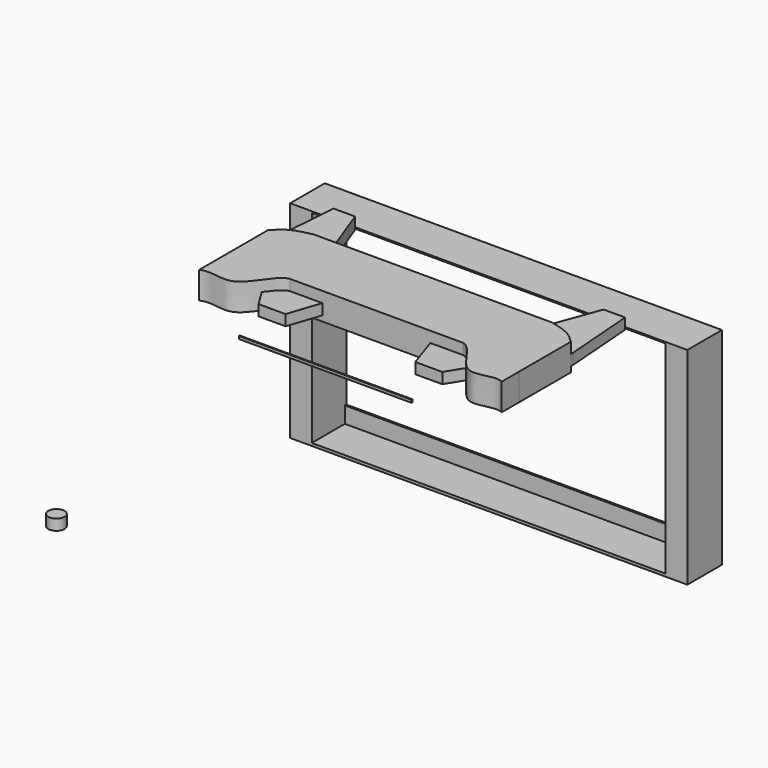
from build123d import *

# Parameters (mm, degrees)
F1_DEPTH  = 63.5
F2_DEPTH  = 38.1
F3_DEPTH  = 12.7
F4_DEPTH  = 40.64
F5_DEPTH  = 12.7
F6_DEPTH  = 38.1
F7_DEPTH  = 12.7
F8_R      = 12.7
F9_DEPTH  = 558.8
F10_DEPTH = 127
F11_DEPTH = 25.4
F0_W      = 203.2
F0_H      = 2.54
F12_DEPTH = 6.35
F13_DEPTH = 485.775
F14_W     = 831.85
F14_H     = 438.15
F15_DEPTH = 101.6
F16_W     = 831.85
F16_H     = 38.1
F17_DEPTH = 97.155


with BuildPart() as f1:
    # F0 (on Top) → F1 (new body)
    with BuildSketch(Plane.XY):
        with BuildLine():
            Line((37.6408246131, -92.8718266129), (-203.6591753869, -92.8718266129))
            Line((-203.6591753869, -92.8718266129), (-444.9591753869, -92.8718266129))
            Line((-444.9591753869, -92.8718266129), (-483.0591753869, -92.8718266129))
            add(Edge.make_bspline(
                [(-559.2591753869, -130.9718266129), (-546.2638541522, -118.4510277738), (-532.7831309209, -107.1088036139), (-512.914695692, -98.9972069738), (-483.0591753869, -92.8718266129)],
                knots=[0, 0, 0, 0, 0.4473487837, 1, 1, 1, 1], degree=3))
            Line((-559.2591753869, -130.9718266129), (-559.2613965273, -283.3718266265))
            Line((-559.2613965273, -283.3718266265), (-559.2613965273, -334.1718266265))
            add(Edge.make_bspline(
                [(-559.2613965273, -334.1718266265), (-534.6703545183, -322.2549836692), (-488.1022443355, -351.771769362), (-455.9218092576, -307.8945100815), (-444.9556249628, -293.0419546548)],
                knots=[0, 0, 0, 0, 0.468017134, 0.7185993108, 0.7185993108, 0.7185993108, 0.7185993108], degree=3))
            add(Edge.make_bspline(
                [(-444.9556249628, -293.0419546548), (-432.6407354621, -276.3627183803), (-420.647967606, -260.2482634048), (-406.8613965273, -257.9718266129)],
                knots=[0.7185993108, 0.7185993108, 0.7185993108, 0.7185993108, 1, 1, 1, 1], degree=3))
            Line((-406.8613965273, -257.9718266129), (-387.8091753869, -257.9718266129))
            Line((-387.8091753869, -257.9718266129), (-330.6591753869, -257.9718266129))
            Line((-330.6591753869, -257.9718266129), (-203.6591753869, -257.9718266129))
            Line((-203.6591753869, -257.9718266129), (-76.6591753869, -257.9718266129))
            Line((-76.6591753869, -257.9718266129), (-63.9591753869, -257.9718266129))
            Line((-63.9591753869, -257.9718266129), (-19.5091753869, -257.9718266129))
            Line((-19.5091753869, -257.9718266129), (-0.4569542466, -257.9718266129))
            add(Edge.make_bspline(
                [(37.2217993936, -293.7148213515), (24.9643426032, -276.4539964179), (12.9099595108, -260.1789696435), (-0.4569542466, -257.9718266129)],
                knots=[0.7271650273, 0.7271650273, 0.7271650273, 0.7271650273, 1, 1, 1, 1], degree=3))
            add(Edge.make_bspline(
                [(151.9430457534, -334.1718266265), (128.0174175424, -322.5774438452), (82.6413173416, -359.5323330165), (49.4333005429, -310.9109320226), (37.2217993936, -293.7148213515)],
                knots=[0, 0, 0, 0, 0.4553529672, 0.7271650273, 0.7271650273, 0.7271650273, 0.7271650273], degree=3))
            Line((151.9430457534, -334.1718266265), (151.9430457534, -283.3718266265))
            Line((151.9430457534, -283.3718266265), (151.9408246131, -130.9718265888))
            add(Edge.make_bspline(
                [(151.9408246131, -130.9718265888), (140.0118859632, -119.4784715188), (131.7584534195, -112.0598265057), (107.579450329, -99.4040756136), (75.7408246131, -92.8718266129)],
                knots=[0, 0, 0, 0, 0.4106398064, 1, 1, 1, 1], degree=3))
            Line((75.7408246131, -92.8718266129), (37.6408246131, -92.8718266129))
        make_face()
    extrude(amount=F1_DEPTH)

    # F0 (on Top) → F2 (join)
    with BuildSketch(Plane.XY):
        with BuildLine():
            add(Edge.make_bspline(
                [(-444.9556249628, -293.0419546548), (-432.6407354621, -276.3627183803), (-420.647967606, -260.2482634048), (-406.8613965273, -257.9718266129)],
                knots=[0.7185993108, 0.7185993108, 0.7185993108, 0.7185993108, 1, 1, 1, 1], degree=3))
            Line((-444.9556249628, -293.0419546548), (-419.5591753869, -334.1718266129))
            Line((-419.5591753869, -334.1718266129), (-387.8091753869, -334.1718266129))
            Line((-387.8091753869, -334.1718266129), (-387.8091753869, -257.9718266129))
            Line((-387.8091753869, -257.9718266129), (-406.8613965273, -257.9718266129))
        make_face()
        Polygon((-330.6591753869, -257.9718266129), (-387.8091753869, -257.9718266129), (-387.8091753869, -334.1718266129), (-356.0591753869, -334.1718266129), align=None)
        Polygon((-19.5091753869, -334.1718266129), (-19.5091753869, -257.9718266129), (-63.9591753869, -257.9718266129), (-76.6591753869, -257.9718266129), (-51.2591753869, -334.1718266129), align=None)
        with BuildLine():
            Line((12.2408246131, -334.1718266129), (37.2217993936, -293.7148213515))
            add(Edge.make_bspline(
                [(37.2217993936, -293.7148213515), (24.9643426032, -276.4539964179), (12.9099595108, -260.1789696435), (-0.4569542466, -257.9718266129)],
                knots=[0.7271650273, 0.7271650273, 0.7271650273, 0.7271650273, 1, 1, 1, 1], degree=3))
            Line((-0.4569542466, -257.9718266129), (-19.5091753869, -257.9718266129))
            Line((-19.5091753869, -257.9718266129), (-19.5091753869, -334.1718266129))
            Line((-19.5091753869, -334.1718266129), (12.2408246131, -334.1718266129))
        make_face()
    extrude(amount=F2_DEPTH)

    # F0 (on Top) → F3 (cut)
    with BuildSketch(Plane.XY):
        with BuildLine():
            add(Edge.make_bspline(
                [(-444.9556249628, -293.0419546548), (-432.6407354621, -276.3627183803), (-420.647967606, -260.2482634048), (-406.8613965273, -257.9718266129)],
                knots=[0.7185993108, 0.7185993108, 0.7185993108, 0.7185993108, 1, 1, 1, 1], degree=3))
            Line((-444.9556249628, -293.0419546548), (-419.5591753869, -334.1718266129))
            Line((-419.5591753869, -334.1718266129), (-387.8091753869, -334.1718266129))
            Line((-387.8091753869, -334.1718266129), (-387.8091753869, -257.9718266129))
            Line((-387.8091753869, -257.9718266129), (-406.8613965273, -257.9718266129))
        make_face()
        Polygon((-330.6591753869, -257.9718266129), (-387.8091753869, -257.9718266129), (-387.8091753869, -334.1718266129), (-356.0591753869, -334.1718266129), align=None)
        Polygon((-19.5091753869, -334.1718266129), (-19.5091753869, -257.9718266129), (-63.9591753869, -257.9718266129), (-76.6591753869, -257.9718266129), (-51.2591753869, -334.1718266129), align=None)
        with BuildLine():
            Line((12.2408246131, -334.1718266129), (37.2217993936, -293.7148213515))
            add(Edge.make_bspline(
                [(37.2217993936, -293.7148213515), (24.9643426032, -276.4539964179), (12.9099595108, -260.1789696435), (-0.4569542466, -257.9718266129)],
                knots=[0.7271650273, 0.7271650273, 0.7271650273, 0.7271650273, 1, 1, 1, 1], degree=3))
            Line((-0.4569542466, -257.9718266129), (-19.5091753869, -257.9718266129))
            Line((-19.5091753869, -257.9718266129), (-19.5091753869, -334.1718266129))
            Line((-19.5091753869, -334.1718266129), (12.2408246131, -334.1718266129))
        make_face()
    extrude(amount=F3_DEPTH, mode=Mode.SUBTRACT)

    # F0 (on Top) → F4 (join)
    with BuildSketch(Plane.XY):
        with BuildLine():
            Line((-483.0591753869, -92.8718266129), (-444.9591753869, -92.8718266129))
            Line((-444.9591753869, -92.8718266129), (-495.7591753869, 44.4939662702))
            Line((-495.7591753869, 44.4939662702), (-546.2638541522, 44.4939662702))
            Line((-546.2638541522, 44.4939662702), (-559.2591753869, -124.5802119374))
            Line((-559.2591753869, -124.5802119374), (-559.2591753869, -130.9718266129))
            add(Edge.make_bspline(
                [(-559.2591753869, -130.9718266129), (-546.2638541522, -118.4510277738), (-532.7831309209, -107.1088036139), (-512.914695692, -98.9972069738), (-483.0591753869, -92.8718266129)],
                knots=[0, 0, 0, 0, 0.4473487837, 1, 1, 1, 1], degree=3))
        make_face()
    extrude(amount=F4_DEPTH)

    # F0 (on Top) → F5 (cut)
    with BuildSketch(Plane.XY):
        with BuildLine():
            Line((-483.0591753869, -92.8718266129), (-444.9591753869, -92.8718266129))
            Line((-444.9591753869, -92.8718266129), (-495.7591753869, 44.4939662702))
            Line((-495.7591753869, 44.4939662702), (-546.2638541522, 44.4939662702))
            Line((-546.2638541522, 44.4939662702), (-559.2591753869, -124.5802119374))
            Line((-559.2591753869, -124.5802119374), (-559.2591753869, -130.9718266129))
            add(Edge.make_bspline(
                [(-559.2591753869, -130.9718266129), (-546.2638541522, -118.4510277738), (-532.7831309209, -107.1088036139), (-512.914695692, -98.9972069738), (-483.0591753869, -92.8718266129)],
                knots=[0, 0, 0, 0, 0.4473487837, 1, 1, 1, 1], degree=3))
        make_face()
    extrude(amount=F5_DEPTH, mode=Mode.SUBTRACT)

    # F0 (on Top) → F6 (join)
    with BuildSketch(Plane.XY):
        with BuildLine():
            Line((88.4408246131, 44.4939662702), (37.6408246131, -92.8718266129))
            Line((37.6408246131, -92.8718266129), (75.7408246131, -92.8718266129))
            add(Edge.make_bspline(
                [(151.9408246131, -130.9718265888), (140.0118859632, -119.4784715188), (131.7584534195, -112.0598265057), (107.579450329, -99.4040756136), (75.7408246131, -92.8718266129)],
                knots=[0, 0, 0, 0, 0.4106398064, 1, 1, 1, 1], degree=3))
            Line((151.9408246131, -130.9718265888), (151.9408246131, -124.5802119374))
            Line((151.9408246131, -124.5802119374), (138.9455033784, 44.4939662702))
            Line((138.9455033784, 44.4939662702), (88.4408246131, 44.4939662702))
        make_face()
    extrude(amount=F6_DEPTH)

    # F0 (on Top) → F7 (cut)
    with BuildSketch(Plane.XY):
        with BuildLine():
            Line((88.4408246131, 44.4939662702), (37.6408246131, -92.8718266129))
            Line((37.6408246131, -92.8718266129), (75.7408246131, -92.8718266129))
            add(Edge.make_bspline(
                [(151.9408246131, -130.9718265888), (140.0118859632, -119.4784715188), (131.7584534195, -112.0598265057), (107.579450329, -99.4040756136), (75.7408246131, -92.8718266129)],
                knots=[0, 0, 0, 0, 0.4106398064, 1, 1, 1, 1], degree=3))
            Line((151.9408246131, -130.9718265888), (151.9408246131, -124.5802119374))
            Line((151.9408246131, -124.5802119374), (138.9455033784, 44.4939662702))
            Line((138.9455033784, 44.4939662702), (88.4408246131, 44.4939662702))
        make_face()
    extrude(amount=F7_DEPTH, mode=Mode.SUBTRACT)

    # F8 (on face) → F9 (join)
    with BuildSketch(Plane(origin=(-559.2572664308, 0.0081508457, 0), x_dir=(-1.45744e-05, -0.9999999999, 0), z_dir=(-0.9999999999, 1.45744e-05, 0))):
        with Locations((40.6680181623, 0.678205397)):
            Circle(F8_R)
    extrude(amount=-F9_DEPTH)

    # F10 (cut): a face of the model
    f10_faces = [f1.faces().sort_by_distance(p)[0] for p in [
        (-559.2578591432, -40.6598673122, 0.678205397),
    ]]
    extrude(f10_faces, amount=-F10_DEPTH, mode=Mode.SUBTRACT)


with BuildPart() as f11:
    # F0 (on Top) → F11 (new body)
    with BuildSketch(Plane.XY):
        with BuildLine():
            ThreePointArc((-184.6091753869, -1197.7718266129), (-190.1887912053, -1184.3014424313), (-203.6591753869, -1178.7218266129))
            ThreePointArc((-203.6591753869, -1178.7218266129), (-217.1295595685, -1211.2422107946), (-184.6091753869, -1197.7718266129))
        make_face()
    extrude(amount=F11_DEPTH)


with BuildPart() as f12:
    # F0 (on Top) → F12 (new body)
    with BuildSketch(Plane.XY):
        with Locations((-305.2591753869, -406.8861642075)):
            Rectangle(F0_W, F0_H)
        with Locations((-102.0591753869, -406.8861642075)):
            Rectangle(F0_W, F0_H)
    extrude(amount=F12_DEPTH)


with BuildPart() as f13:
    # F0 (on Top) → F13 (new body)
    with BuildSketch(Plane.XY):
        Polygon((-670.3841753869, 72.2281733871), (-203.6591753869, 72.2281733871), (263.0658246131, 72.2281733871), (263.0658246131, 173.8281733871), (-670.3841753869, 173.8281733871), align=None)
    extrude(amount=-F13_DEPTH)

    # F14 (on face) → F15 (cut)
    with BuildSketch(Plane(origin=(0, 173.8281733871, 0), x_dir=(-1, 0, 0), z_dir=(0, 1, 0))):
        with Locations((203.6591753869, -222.25)):
            Rectangle(F14_W, F14_H)
    extrude(amount=-F15_DEPTH, mode=Mode.SUBTRACT)

    # F16 (on face) → F17 (cut)
    with BuildSketch(Plane.XZ.offset(-72.2281733871)):
        with Locations((-203.6591753869, -460.375)):
            Rectangle(F16_W, F16_H)
    extrude(amount=-F17_DEPTH, mode=Mode.SUBTRACT)


solid = Compound([f1.part, f11.part, f12.part, f13.part])
